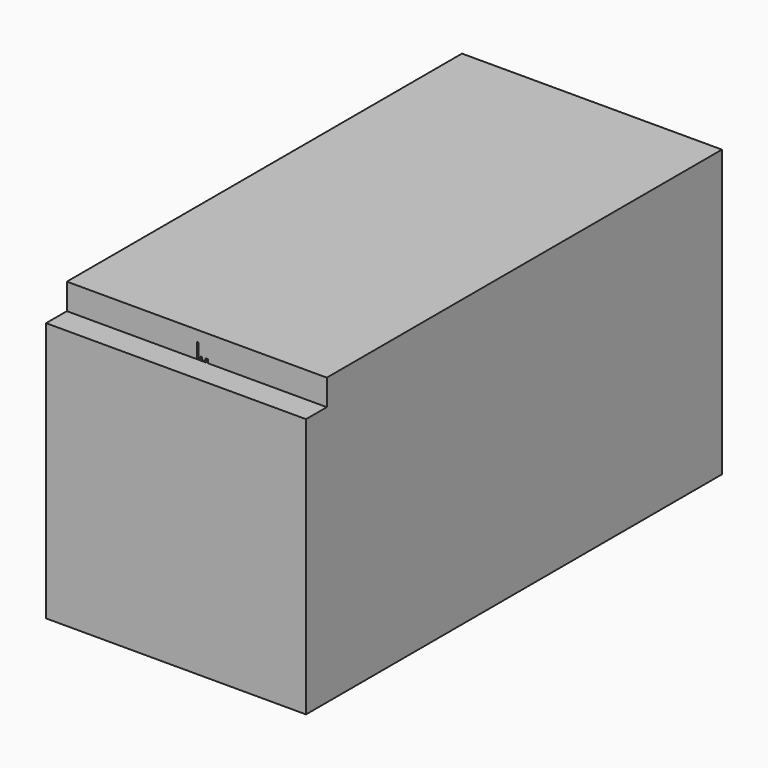
from build123d import *

# Parameters (mm, degrees)
F1_W     = 2540
F1_H     = 254
F2_DEPTH = 4826
F3_DEPTH = 4826
F5_DEPTH = 2540
F7_DEPTH = 4826


with BuildPart() as f2:
    # F1 (on Front) → F2 (new body)
    with BuildSketch(Plane.XZ):
        with Locations((0, 127)):
            Rectangle(F1_W, F1_H)
    extrude(amount=-F2_DEPTH)

    # F0 (on Front) → F3 (cut)
    with BuildSketch(Plane.XZ):
        Polygon((0, 149.86), (0, 0), (109.22, 0), (109.22, 35.56), (83.82, 35.56), (83.82, 10.16), (50.8, 10.16), (50.8, 35.56), (38.1, 35.56), (38.1, 22.86), (17.78, 22.86), (17.78, 149.86), align=None)
    extrude(amount=-F3_DEPTH, mode=Mode.SUBTRACT)

    # F4 (on face) → F5 (join)
    with BuildSketch(Plane.YZ.offset(1270)):
        Polygon((4826, -2540), (4826, 0), (0, 0), (-254, 0), (-254, -2540), align=None)
    extrude(amount=-F5_DEPTH)

    # F6 (on face) → F7 (join)
    with BuildSketch(Plane.XZ):
        Polygon((6.35, 81.28), (6.35, 0), (87.63, 0), (87.63, 5.08), (11.43, 5.08), (11.43, 81.28), align=None)
    extrude(amount=-F7_DEPTH)


solid = f2.part
